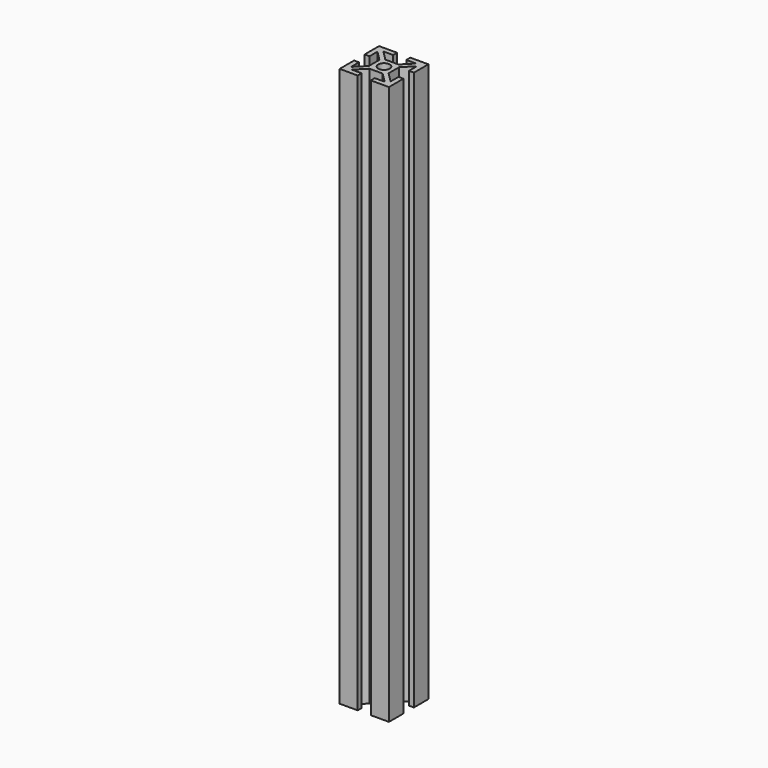
from build123d import *

# Parameters (mm, degrees)
F0_R     = 3.5
F1_DEPTH = 340


with BuildPart() as f1:
    # F0 (on Top) → F1 (new body)
    with BuildSketch(Plane.XY):
        Polygon((-4, 15), (-15, 15), (-15, 4), (-12, 4), (-12, 10), (-6, 4), (-6, 0), (-6, -4), (-12, -10), (-12, -4), (-15, -4), (-15, -15), (-4, -15), (-4, -12), (-10, -12), (-4, -6), (0, -6), (4, -6), (10, -12), (4, -12), (4, -15), (15, -15), (15, -4), (12, -4), (12, -10), (6, -4), (6, 0), (6, 4), (12, 10), (12, 4), (15, 4), (15, 15), (4, 15), (4, 12), (10, 12), (4, 6), (0, 6), (-4, 6), (-10, 12), (-4, 12), align=None)
        Circle(F0_R, mode=Mode.SUBTRACT)
    extrude(amount=F1_DEPTH)


solid = f1.part
